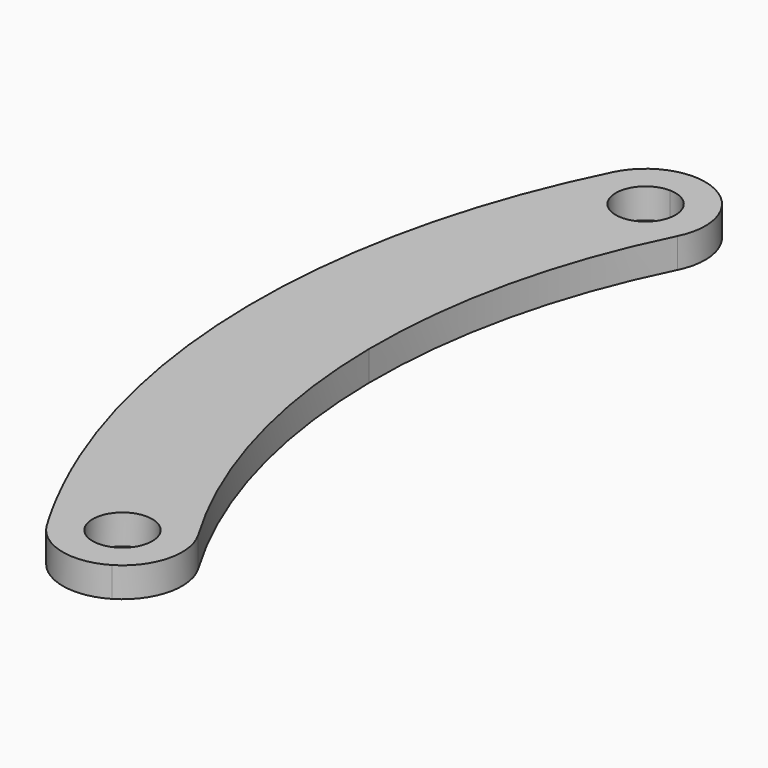
from build123d import *

# Parameters (mm, degrees)
F0_R     = 3.175
F1_DEPTH = 3.175


with BuildPart() as f1:
    # F0 (on Top) → F1 (new body)
    with BuildSketch(Plane.XY):
        with BuildLine():
            ThreePointArc((-4.6690304578, 36.0608687482), (-4.926356626, 42.1933740702), (-10.2528819721, 45.2432865312))
            ThreePointArc((-10.2528819721, 45.2432865312), (-13.6512609491, 44.3196488769), (-16.034861924, 41.7272498758))
            ThreePointArc((-16.034861924, 41.7272498758), (-24.6382163154, 8.2639214044), (-18.7919287035, -25.7894628669))
            Line((-18.7919287035, -25.7894628669), (-12.3928580021, 2.7761611158))
            ThreePointArc((-12.3928580021, 2.7761611158), (-12.2172281013, 3.4683335365), (-12.0029711474, 4.1495401716))
            ThreePointArc((-12.0029711474, 4.1495401716), (-10.2322760444, 20.5410111397), (-4.6690304578, 36.0608687482))
        make_face()
        with BuildLine():
            ThreePointArc((-7.1769461909, 38.894059312), (-12.6144546933, 36.6665763656), (-10.3024140815, 42.0686729216))
            ThreePointArc((-10.3024140815, 42.0686729216), (-8.0894376884, 41.1215422584), (-7.1769461909, 38.894059312))
        make_face(mode=Mode.SUBTRACT)
        with BuildLine():
            ThreePointArc((-18.7919287035, -25.7894628669), (-17.199620286, -29.5004662895), (-15.4277360093, -33.1291600779))
            ThreePointArc((-15.4277360093, -33.1291600779), (-10.0074027219, -36.507133329), (-4.3842812821, -39.5355357964))
            ThreePointArc((-4.3842812821, -39.5355357964), (-1.4791469298, -35.6407535094), (-2.1779859288, -30.8323485013))
            ThreePointArc((-2.1779859288, -30.8323485013), (-9.4049707621, -13.9914505961), (-12.0029711474, 4.1495401716))
            ThreePointArc((-12.0029711474, 4.1495401716), (-12.2172281013, 3.4683335365), (-12.3928580021, 2.7761611158))
            Line((-12.3928580021, 2.7761611158), (-18.7919287035, -25.7894628669))
        make_face()
        with Locations((-7.6344430684, -34.0803595057)):
            Circle(F0_R, mode=Mode.SUBTRACT)
        with BuildLine():
            ThreePointArc((-4.3842812821, -39.5355357964), (-10.0074027219, -36.507133329), (-15.4277360093, -33.1291600779))
            ThreePointArc((-15.4277360093, -33.1291600779), (-14.2898816566, -35.2457737279), (-13.0909002079, -37.32837051))
            ThreePointArc((-13.0909002079, -37.32837051), (-9.1948370721, -40.2356556442), (-4.3842812821, -39.5355357964))
        make_face()
    extrude(amount=F1_DEPTH)


solid = f1.part
